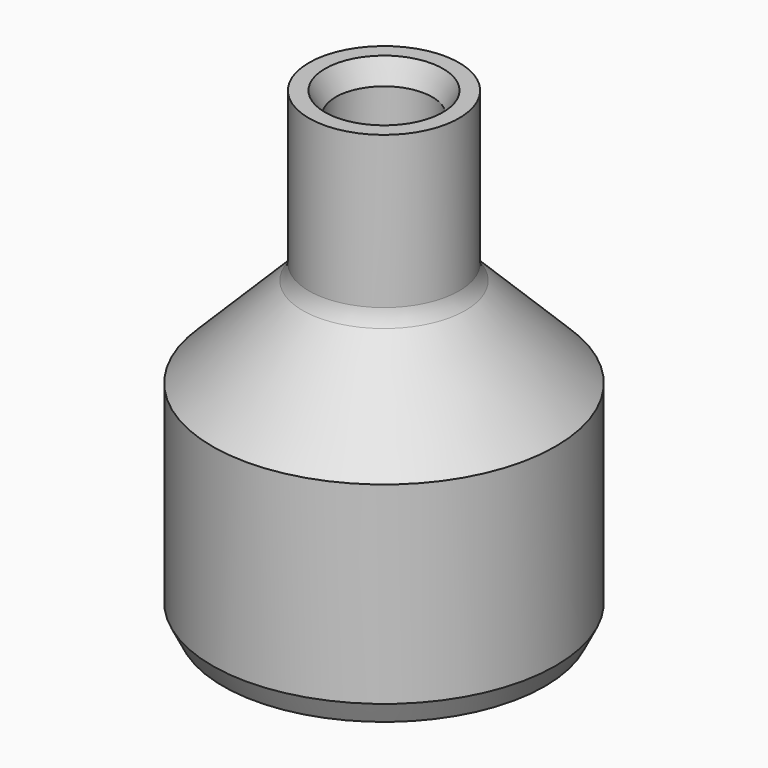
from build123d import *

# Parameters (mm, degrees)
F2_T       = -2.5
F3_R       = 2
F4_SIZE2   = 1
F4_SIZE    = 2
F4_2_SIZE2 = 1
F4_2_SIZE  = 2


with BuildPart() as f1:
    # F0 (on Front) → F1 (revolve)
    with BuildSketch(Plane.XZ):
        Polygon((0, 0), (0, 44), (-7, 44), (-7, 29), (-16, 20), (-16, 0), align=None)
    revolve(axis=Axis((0, 0, 22), (0, 0, 1)))

    # F2
    f2_openings = [f1.faces().sort_by_distance(p)[0] for p in [
        (0, 0, 44),
        (0, 0, 0),
    ]]
    offset(amount=F2_T, openings=f2_openings, kind=Kind.INTERSECTION)

    # F3
    f3_edges = [f1.edges().sort_by_distance(p)[0] for p in [
        (7, 0, 29),
        (13.5, 0, 18.964466),
    ]]
    fillet(f3_edges, radius=F3_R)

    # F4
    f4_edges = [f1.edges().sort_by_distance(p)[0] for p in [
        (16, 0, 0),
    ]]
    f4_side = f1.faces().sort_by_distance((16, 0, 10))[0]
    chamfer(f4_edges, length=F4_SIZE, length2=F4_SIZE2, reference=f4_side)

    # F4#2
    f4_2_edges = [f1.edges().sort_by_distance(p)[0] for p in [
        (4.5, 0, 44),
    ]]
    f4_2_side = f1.faces().sort_by_distance((4.5, 0, 35.982233))[0]
    chamfer(f4_2_edges, length=F4_2_SIZE, length2=F4_2_SIZE2, reference=f4_2_side)


solid = f1.part
